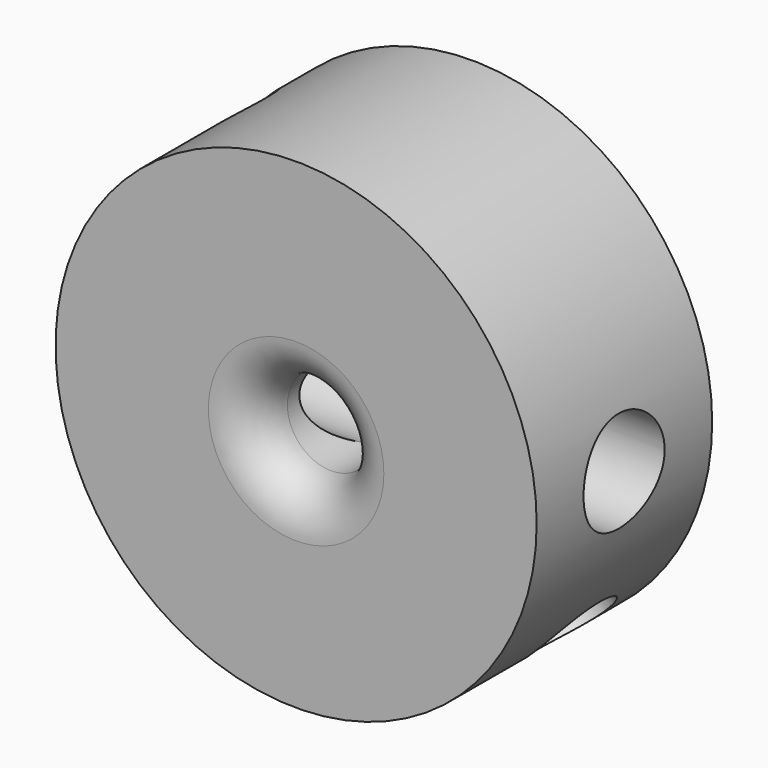
from build123d import *

# Parameters (mm, degrees)
F0_R           = 27.4134107223
F1_DEPTH       = 25
F2_R           = 5
F3_DEPTH       = 25
F3_DEPTH_BACK  = 25
F4_R           = 5
F5_R           = 5.7754961782
F6_DEPTH       = 27.4144107223
F6_DEPTH_BACK  = 27.4144107223
F9_R           = 5
F10_DEPTH      = 38.7694173758
F10_DEPTH_BACK = 38.7694173758


with BuildPart() as f1:
    # F0 (on Front) → F1 (new body)
    with BuildSketch(Plane.XZ):
        Circle(F0_R)
    extrude(amount=F1_DEPTH)

    # F2 (on face) → F3 (cut, two sides)
    with BuildSketch(Plane.XZ.offset(25)) as f3_sk:
        with Locations((0, -0.6682850071)):
            Circle(F2_R)
    extrude(amount=-F3_DEPTH, mode=Mode.SUBTRACT)
    extrude(f3_sk.sketch, amount=F3_DEPTH_BACK, mode=Mode.SUBTRACT)

    # F4
    f4_edges = [f1.edges().sort_by_distance(p)[0] for p in [
        (-5, -25, -0.668285),
    ]]
    fillet(f4_edges, radius=F4_R)

    # F5 (on Right) → F6 (cut, two sides)
    with BuildSketch(Plane.YZ) as f6_sk:
        with Locations((-12.5455856323, 0)):
            Circle(F5_R)
    extrude(amount=F6_DEPTH, mode=Mode.SUBTRACT)
    extrude(f6_sk.sketch, amount=-F6_DEPTH_BACK, mode=Mode.SUBTRACT)

    # F9 (on face) → F10 (cut, two sides)
    with BuildSketch(Plane(origin=(0, 0, 0), x_dir=(0, 1, 0), z_dir=(0.7071067812, 0, -0.7071067812))) as f10_sk:
        with Locations((-10, 0)):
            Circle(F9_R)
    extrude(amount=-F10_DEPTH, mode=Mode.SUBTRACT)
    extrude(f10_sk.sketch, amount=F10_DEPTH_BACK, mode=Mode.SUBTRACT)


solid = f1.part
